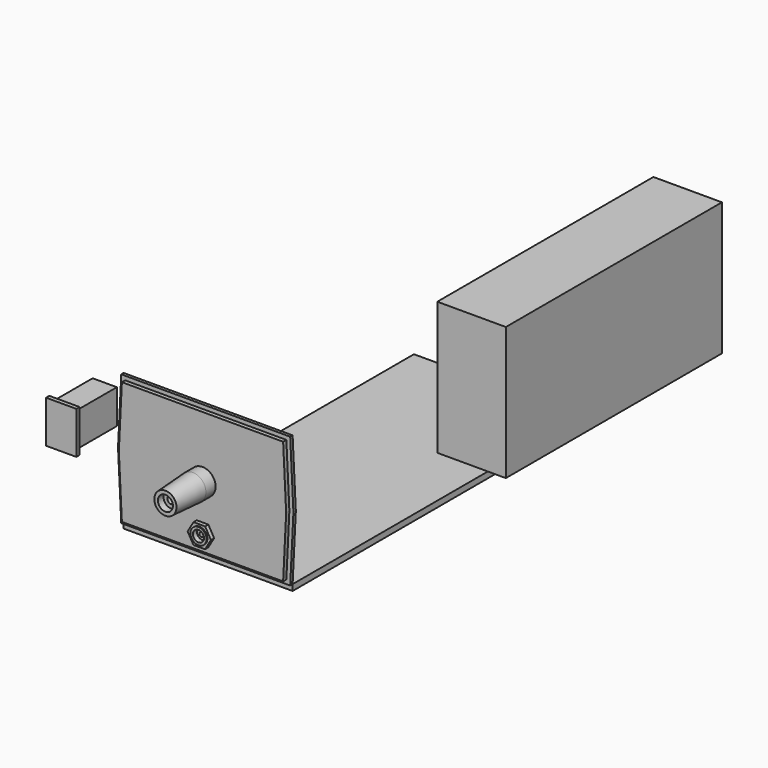
from build123d import *

# Parameters (mm, degrees)
F1_DEPTH  = 3.5
F2_DEPTH  = 1.5
F0_W      = 12
F0_H      = 17
F3_DEPTH  = 25
F0_W_2    = 15
F0_H_2    = 21
F4_DEPTH  = 2
F5_W      = 4.1825124063
F5_H      = 1.05
F5_W_2    = 2.7589036617
F5_W_3    = 6
F5_H_2    = 1.25
F8_R      = 4
F9_DEPTH  = 2
F11_DEPTH = 2.8
F12_W     = 34
F12_H     = 134
F13_DEPTH = 66
F14_W     = 83.8081131763
F14_H     = 3
F15_DEPTH = 180


with BuildPart() as f1:
    # F0 (on Front) → F1 (new body)
    with BuildSketch(Plane.XZ):
        Polygon((-40, -30.5), (40, -30.5), (41.5, 0), (40, 30.5), (-40, 30.5), (-41.5, 0), align=None)
    extrude(amount=F1_DEPTH)

    # F0 (on Front) → F2 (join)
    with BuildSketch(Plane.XZ):
        Polygon((43.5024172439, 0), (41.9040565881, 32.5), (-41.9040565881, 32.5), (-43.5024172439, 0), (-41.9040565881, -32.5), (41.9040565881, -32.5), align=None)
        Polygon((41.5, 0), (40, -30.5), (-40, -30.5), (-41.5, 0), (-40, 30.5), (40, 30.5), align=None, mode=Mode.SUBTRACT)
    extrude(amount=F2_DEPTH)


with BuildPart() as f3:
    # F0 (on Front) → F3 (new body)
    with BuildSketch(Plane.XZ):
        with Locations((-71.3006779552, 0)):
            Rectangle(F0_W, F0_H)
    extrude(amount=-F3_DEPTH)

    # F0 (on Front) → F4 (join)
    with BuildSketch(Plane.XZ):
        with Locations((-71.3006779552, 0)):
            Rectangle(F0_W_2, F0_H_2)
        with Locations((-71.3006779552, 0)):
            Rectangle(F0_W, F0_H, mode=Mode.SUBTRACT)
        with Locations((-71.3006779552, 0)):
            Rectangle(F0_W, F0_H)
    extrude(amount=F4_DEPTH)


with BuildPart() as f6:
    # F5 (on Right) → F6 (revolve)
    with BuildSketch(Plane.YZ):
        Polygon((-3.5, 3.25), (-3.5, 6.5), (-9.5, 6.5), (-26.5, 5.5), (-26.5, 3.727769712), (-22.9847636074, 3.727769712), (-22.9847636074, 1.8582198536), (-9.006283246, 1.8582198536), (-9.006283246, 0), (-3.5, 0), align=None)
        Polygon((-0.5, 3.25), (-3.5, 3.25), (-3.5, 0), (-0.5, 0), (-0.5, 1.5), align=None)
        Polygon((-0.5, 1.5), (-0.5, 0), (0, 0), (17.5, 0), (17.5, 1.5), align=None)
    revolve(axis=Axis((0, -15, 0), (0, 1, 0)))

    # F10 (on face) → F11 (join)
    with BuildSketch(Plane.XZ):
        Polygon((-1.4117720832, 3.1633683923), (-3.4454434308, 0.3590537077), (-2.0336713476, -2.8043146845), (1.4117720832, -3.1633683923), (3.4454434308, -0.3590537077), (2.0336713476, 2.8043146845), align=None)
    extrude(amount=-F11_DEPTH)


with BuildPart() as f7:
    # F5 (on Right) → F7 (revolve)
    with BuildSketch(Plane.YZ):
        with Locations((-2.0912562031, -22.1991609246)):
            Rectangle(F5_W, F5_H)
        with Locations((1.3794518309, -22.1991609246)):
            Rectangle(F5_W_2, F5_H)
        Polygon((2.1458028089, -17.8837124258), (0, -17.8837124258), (0, -18.7241609246), (0, -19.9741609246), (2.7589036617, -19.9741609246), (2.7589036617, -21.6741609246), (2.7589036617, -22.7241609246), (10.5, -22.7241609246), (10.5, -18.7379103154), (3, -18.7379103154), align=None)
        with Locations((-3, -19.3491609246)):
            Rectangle(F5_W_3, F5_H_2)
    revolve(axis=Axis((0, 3.4161561243, -22.7241609246), (0, 1, 0)))

    # F8 (on face) → F9 (join)
    with BuildSketch(Plane.XZ.offset(3.5)):
        Polygon((5.7734741162, -22.7423257935), (2.9024682961, -17.7332681063), (-2.8710058201, -17.7151032373), (-5.7734741162, -22.7059960556), (-2.9024682961, -27.7150537428), (2.8710058201, -27.7332186118), align=None)
        with Locations((0, -22.7241609246)):
            Circle(F8_R, mode=Mode.SUBTRACT)
    extrude(amount=F9_DEPTH)


with BuildPart() as f13:
    # F12 (on Top) → F13 (new body)
    with BuildSketch(Plane.XY):
        with Locations((72.8403810198, 139.3083352596)):
            Rectangle(F12_W, F12_H)
    extrude(amount=F13_DEPTH)


with BuildPart() as f15:
    # F14 (on Front) → F15 (new body)
    with BuildSketch(Plane.XZ):
        with Locations((0, -34)):
            Rectangle(F14_W, F14_H)
    extrude(amount=-F15_DEPTH)


solid = Compound([f1.part, f3.part, f6.part, f7.part, f13.part, f15.part])
